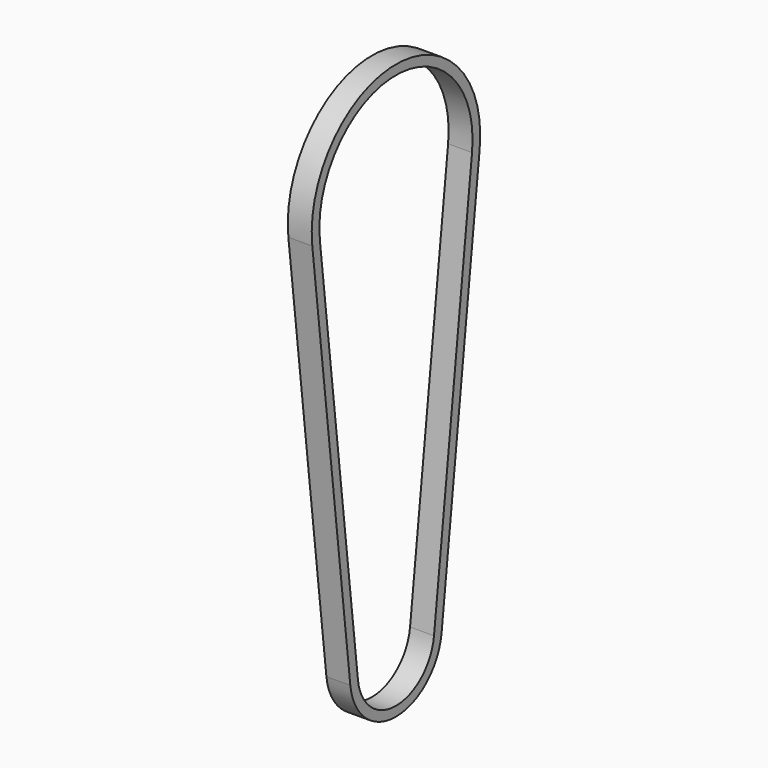
from build123d import *

# Parameters (mm, degrees)
F1_DEPTH = 25


with BuildPart() as f1:
    # F0 (on Right) → F1 (new body)
    with BuildSketch(Plane.YZ):
        with BuildLine():
            ThreePointArc((109.253824, -12.790698), (0, 110), (-109.253824, -12.790698))
            Line((-109.253824, -12.790698), (-59.592995, -436.976744))
            ThreePointArc((-59.592995, -436.976744), (0, -490), (59.592995, -436.976744))
            Line((59.592995, -436.976744), (109.253824, -12.790698))
        make_face()
        with BuildLine():
            ThreePointArc((-99.321658, -11.627907), (0, 100), (99.321658, -11.627907))
            Line((99.321658, -11.627907), (49.660829, -435.813953))
            ThreePointArc((49.660829, -435.813953), (0, -480), (-49.660829, -435.813953))
            Line((-49.660829, -435.813953), (-99.321658, -11.627907))
        make_face(mode=Mode.SUBTRACT)
    extrude(amount=F1_DEPTH)


solid = f1.part
